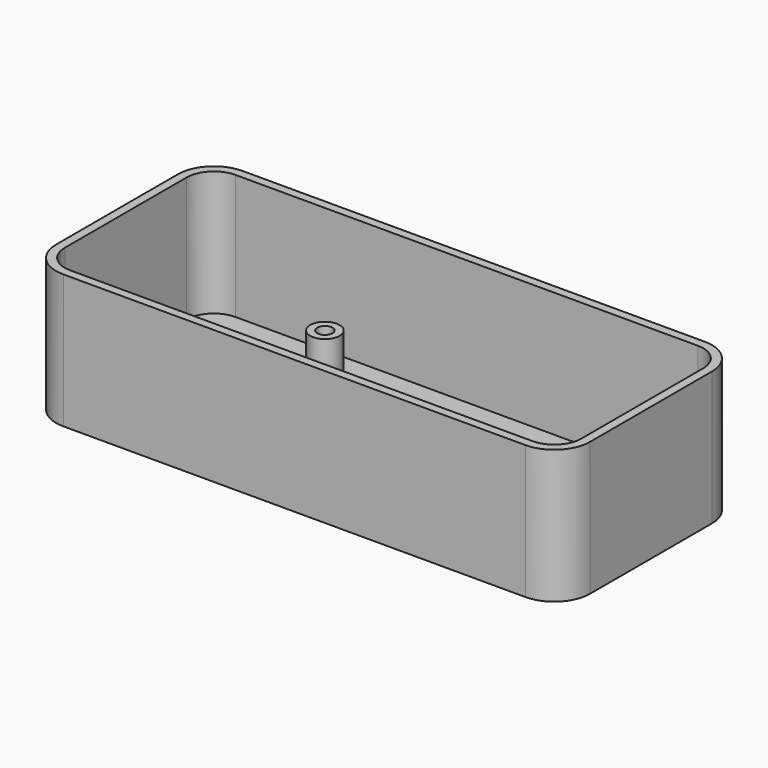
from build123d import *

# Parameters (mm, degrees)
SKETCH002_R      = 2.7
SKETCH002_R_2    = 1.4
EXTRUDE001_DEPTH = 7
EXTRUDE002_DEPTH = 23
EXTRUDE_DEPTH    = 1.6


with BuildPart() as obj1:
    # Sketch002 (on Face10 of Extrude) → Extrude001 (new body)
    with BuildSketch(Plane.XY.offset(-10.4)):
        with Locations((90.524621, -65.993824)):
            Circle(SKETCH002_R)
        with Locations((90.524621, -65.993824)):
            Circle(SKETCH002_R_2, mode=Mode.SUBTRACT)
        with Locations((90.502441, -92.471822)):
            Circle(SKETCH002_R)
        with Locations((90.502441, -92.471822)):
            Circle(SKETCH002_R_2, mode=Mode.SUBTRACT)
        with Locations((153.513474, -66.00515)):
            Circle(SKETCH002_R)
        with Locations((153.513474, -66.00515)):
            Circle(SKETCH002_R_2, mode=Mode.SUBTRACT)
        with Locations((153.502167, -92.48777)):
            Circle(SKETCH002_R)
        with Locations((153.502167, -92.48777)):
            Circle(SKETCH002_R_2, mode=Mode.SUBTRACT)
    extrude(amount=EXTRUDE001_DEPTH)


with BuildPart() as obj1_1:
    # Extrude001 placement: moved
    add(obj1.part.moved(Location((20, 0, 0))))


with BuildPart() as walls:
    # Sketch → Extrude002 (new body)
    with BuildSketch(Plane.XY):
        with BuildLine():
            Line((89.498192, -99.850084), (174.498192, -99.850084))
            ThreePointArc((174.498192, -99.850084), (179.165097, -97.916989), (181.098192, -93.250084))
            Line((181.098192, -93.250084), (181.098192, -65.250084))
            ThreePointArc((181.098192, -65.250084), (179.165097, -60.583179), (174.498192, -58.650084))
            Line((174.498192, -58.650084), (89.498192, -58.650084))
            ThreePointArc((89.498192, -58.650084), (84.831287, -60.583179), (82.898192, -65.250084))
            Line((82.898192, -65.250084), (82.898192, -93.250084))
            ThreePointArc((82.898192, -93.250084), (84.831287, -97.916989), (89.498192, -99.850084))
        make_face()
        with BuildLine():
            Line((89.498192, -60.250084), (174.498192, -60.250084))
            ThreePointArc((179.498192, -65.250084), (178.033726, -61.71455), (174.498192, -60.250084))
            Line((179.498192, -65.250084), (179.498192, -93.250084))
            ThreePointArc((174.498192, -98.250084), (178.033726, -96.785618), (179.498192, -93.250084))
            Line((174.498192, -98.250084), (89.498192, -98.250084))
            ThreePointArc((84.498192, -93.250084), (85.962658, -96.785618), (89.498192, -98.250084))
            Line((84.498192, -93.250084), (84.498192, -65.250084))
            ThreePointArc((89.498192, -60.250084), (85.962658, -61.71455), (84.498192, -65.250084))
        make_face(mode=Mode.SUBTRACT)
    extrude(amount=EXTRUDE002_DEPTH)


with BuildPart() as walls_1:
    # Extrude002 placement: moved
    add(walls.part.moved(Location((0, 0, -10.4))))


with BuildPart() as doos:
    # Sketch001 → Extrude (new body)
    with BuildSketch(Plane.XY):
        with BuildLine():
            Line((89.498192, -99.850084), (174.498192, -99.850084))
            ThreePointArc((174.498192, -99.850084), (179.165097, -97.916989), (181.098192, -93.250084))
            Line((181.098192, -93.250084), (181.098192, -65.250084))
            ThreePointArc((181.098192, -65.250084), (179.165097, -60.583179), (174.498192, -58.650084))
            Line((174.498192, -58.650084), (89.498192, -58.650084))
            ThreePointArc((89.498192, -58.650084), (84.831287, -60.583179), (82.898192, -65.250084))
            Line((82.898192, -65.250084), (82.898192, -93.250084))
            ThreePointArc((82.898192, -93.250084), (84.831287, -97.916989), (89.498192, -99.850084))
        make_face()
    extrude(amount=EXTRUDE_DEPTH)


with BuildPart() as doos_1:
    # Extrude placement: moved
    add(doos.part.moved(Location((0, 0, -12))))

    # Fusion: union obj1, Walls
    add(obj1_1.part)
    add(walls_1.part)


solid = doos_1.part
